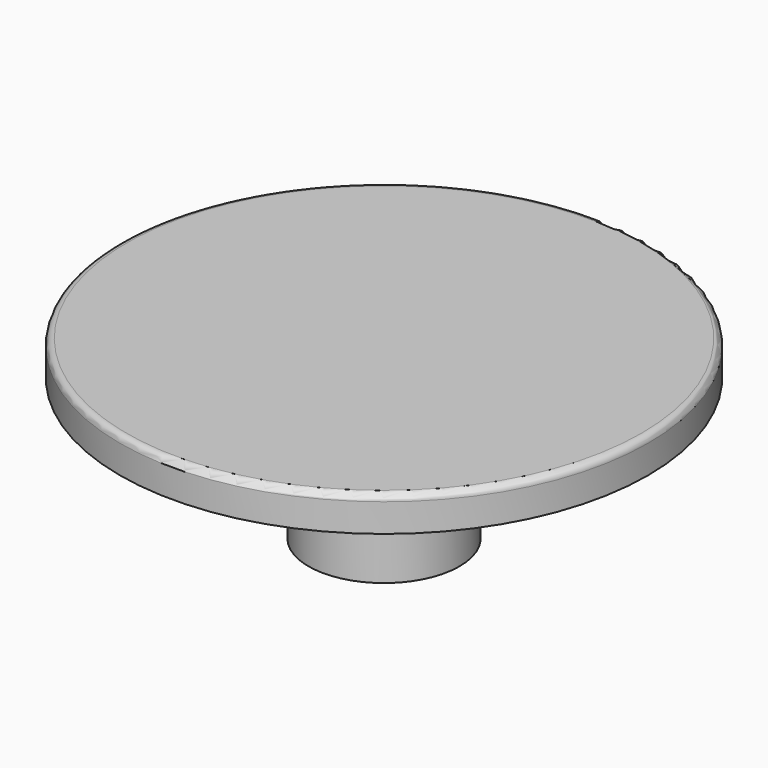
from build123d import *


with BuildPart() as f1:
    # F0 (on Front) → F1 (revolve)
    with BuildSketch(Plane.XZ):
        with BuildLine():
            Line((4, -3), (4, 0.5))
            Line((4, 0.5), (6.5, 3))
            Line((6.5, 3), (6.5, 4.5))
            Line((6.5, 4.5), (14, 4.5))
            Line((14, 4.5), (14, 6))
            ThreePointArc((14, 6), (13.897487, 6.247487), (13.65, 6.35))
            Line((13.65, 6.35), (0, 6.35))
            Line((0, 6.35), (0, -3))
            Line((0, -3), (4, -3))
        make_face()
    revolve(axis=Axis((0, 0, 1.675), (0, 0, -1)))


solid = f1.part
